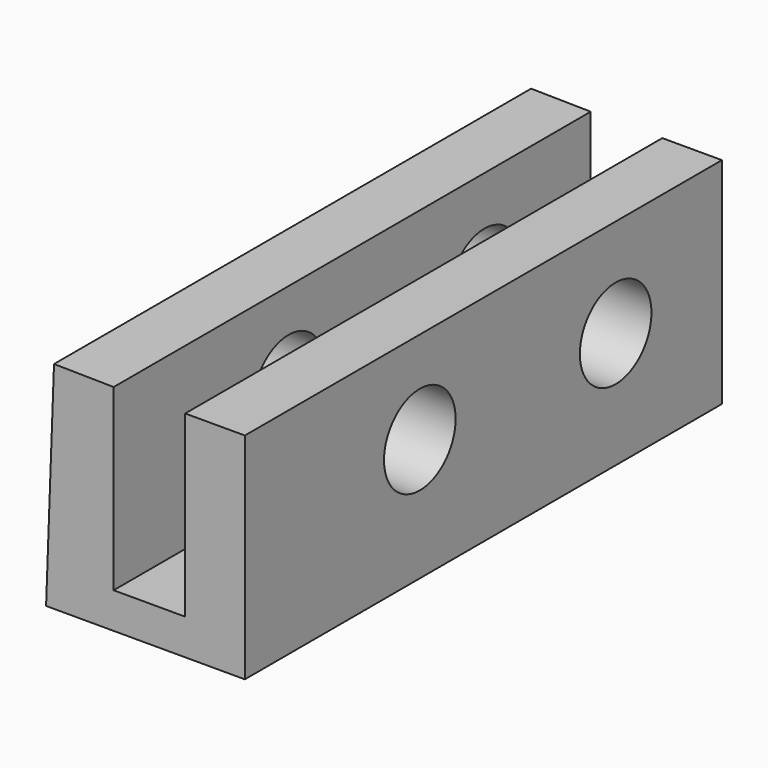
from build123d import *

# Parameters (mm, degrees)
F1_DEPTH = 25.4
F2_R     = 1.905
F3_DEPTH = 25.4


with BuildPart() as f1:
    # F0 (on Front) → F1 (new body)
    with BuildSketch(Plane.XZ):
        Polygon((4.8928674177, 3.5541762707), (2.3531452886, 3.5917462977), (2.0153414423, -5.5898237293), (10.4808674177, -5.5898237293), (10.4808674177, 3.5541762707), (7.9408674177, 3.5541762707), (7.9408674177, -4.0658237293), (4.8928674177, -4.0658237293), align=None)
    extrude(amount=F1_DEPTH)

    # F2 (on face) → F3 (cut)
    with BuildSketch(Plane(origin=(2.2179971955, 0, -0.081603471), x_dir=(0, -1, 0), z_dir=(-0.9993238786, 0, 0.0367666367))):
        with Locations((5.6575868909, -0.2547711513)):
            Circle(F2_R)
        with Locations((16.0838415819, 0)):
            Circle(F2_R)
    extrude(amount=-F3_DEPTH, mode=Mode.SUBTRACT)


solid = f1.part
